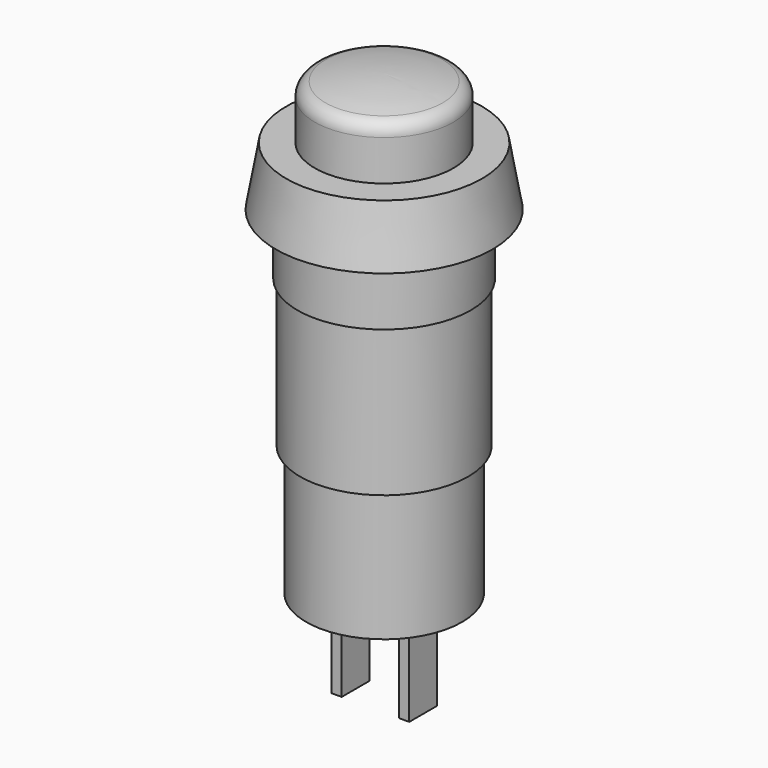
from build123d import *

# Parameters (mm, degrees)
SKETCH001_W = 0.6
SKETCH001_H = 2
PAD_DEPTH   = 5.4


with BuildPart() as part:
    # Sketch → Revolution (revolve)
    with BuildSketch(Plane.XZ):
        with BuildLine():
            Line((0, -19.5), (4.5, -19.5))
            Line((4.5, -19.5), (4.5, -12))
            Line((4.5, -12), (4.85, -12))
            Line((4.85, -12), (4.85, -3.5))
            Line((4.85, -3.5), (5, -3.5))
            Line((5, -3.5), (5, 0))
            Line((5, 0), (6.25, 0))
            Line((6.25, 0), (5.650488, 3.4))
            Line((5.650488, 3.4), (4, 3.4))
            Line((4, 3.4), (4, 5.734739))
            ThreePointArc((4, 5.734739), (3.826189, 6.232622), (3.380282, 6.514161))
            ThreePointArc((3.380282, 6.514161), (1.701116, 6.803228), (0, 6.9))
            Line((0, 6.9), (0, -19.5))
        make_face()
    revolve(axis=Axis((0, 0, 0), (0, 0, 1)))

    # Sketch001 (on Face1 of Revolution) → Pad (new body)
    with BuildSketch(Plane(origin=(0, 0, -19.5), x_dir=(1, 0, 0), z_dir=(0, 0, -1))):
        with Locations((-1.95, 0)):
            Rectangle(SKETCH001_W, SKETCH001_H)
        with Locations((1.95, 0)):
            Rectangle(SKETCH001_W, SKETCH001_H)
    extrude(amount=PAD_DEPTH)


solid = part.part
